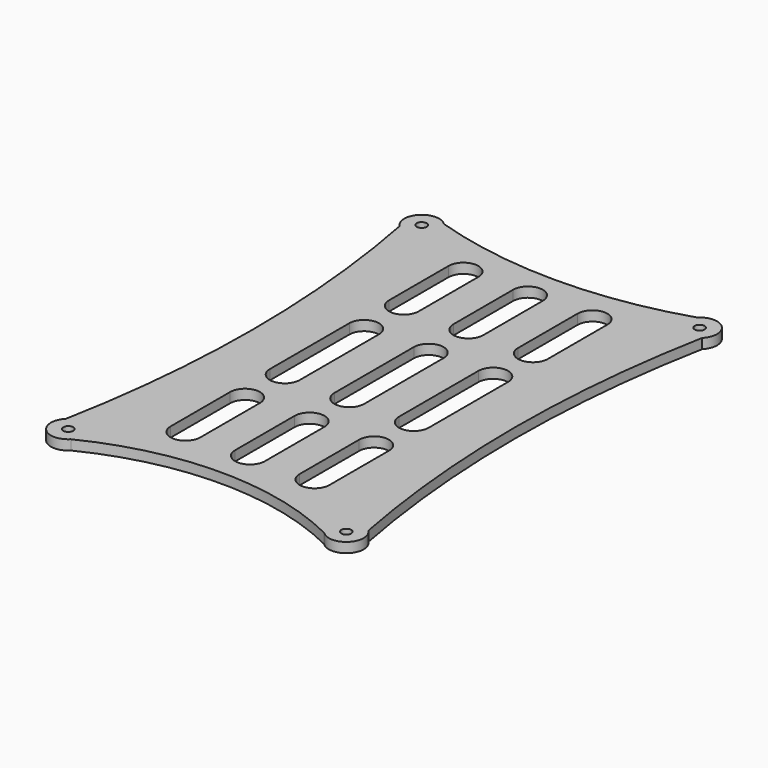
from build123d import *

# Parameters (mm, degrees)
F0_R     = 1
F1_DEPTH = 2


with BuildPart() as f1:
    # F0 (on Top) → F1 (new body)
    with BuildSketch(Plane.XY):
        with BuildLine():
            ThreePointArc((29.346194, 39.596192), (29.346194, 44.545939), (24.396447, 44.545939))
            ThreePointArc((24.396447, 44.545939), (-1.12868, 40.571065), (-26.653806, 44.545939))
            ThreePointArc((-26.653806, 44.545939), (-31.603553, 44.545939), (-31.603553, 39.596192))
            ThreePointArc((-31.603553, 39.596192), (-27.62868, -2.428935), (-31.603553, -44.454061))
            ThreePointArc((-31.603553, -44.454061), (-31.603553, -49.403808), (-26.653806, -49.403808))
            ThreePointArc((-26.653806, -49.403808), (-1.12868, -43.428935), (24.396447, -49.403808))
            ThreePointArc((24.396447, -49.403808), (29.346194, -49.403808), (29.346194, -44.454061))
            ThreePointArc((29.346194, -44.454061), (25.37132, -2.428935), (29.346194, 39.596192))
        make_face()
        with Locations((-29.12868, -46.928935)):
            Circle(F0_R, mode=Mode.SUBTRACT)
        with BuildLine():
            Line((-17.12868, -36.171575), (-17.12868, -21.171575))
            ThreePointArc((-17.12868, -21.171575), (-14.12868, -18.171575), (-11.12868, -21.171575))
            Line((-11.12868, -21.171575), (-11.12868, -36.171575))
            ThreePointArc((-11.12868, -36.171575), (-14.12868, -39.171575), (-17.12868, -36.171575))
        make_face(mode=Mode.SUBTRACT)
        with BuildLine():
            Line((-4.12868, -36.171575), (-4.12868, -21.171575))
            ThreePointArc((-4.12868, -21.171575), (-1.12868, -18.171575), (1.87132, -21.171575))
            Line((1.87132, -21.171575), (1.87132, -36.171575))
            ThreePointArc((1.87132, -36.171575), (-1.12868, -39.171575), (-4.12868, -36.171575))
        make_face(mode=Mode.SUBTRACT)
        with BuildLine():
            Line((8.87132, -36.171575), (8.87132, -21.171575))
            ThreePointArc((8.87132, -21.171575), (11.87132, -18.171575), (14.87132, -21.171575))
            Line((14.87132, -21.171575), (14.87132, -36.171575))
            ThreePointArc((14.87132, -36.171575), (11.87132, -39.171575), (8.87132, -36.171575))
        make_face(mode=Mode.SUBTRACT)
        with Locations((26.87132, -46.928935)):
            Circle(F0_R, mode=Mode.SUBTRACT)
        with BuildLine():
            Line((-17.12868, -11.171575), (-17.12868, 8.828425))
            ThreePointArc((-17.12868, 8.828425), (-14.12868, 11.828425), (-11.12868, 8.828425))
            Line((-11.12868, 8.828425), (-11.12868, -11.171575))
            ThreePointArc((-11.12868, -11.171575), (-14.12868, -14.171575), (-17.12868, -11.171575))
        make_face(mode=Mode.SUBTRACT)
        with Locations((-29.12868, 42.071065)):
            Circle(F0_R, mode=Mode.SUBTRACT)
        with BuildLine():
            Line((-17.12868, 18.828425), (-17.12868, 33.828425))
            ThreePointArc((-17.12868, 33.828425), (-14.12868, 36.828425), (-11.12868, 33.828425))
            Line((-11.12868, 33.828425), (-11.12868, 18.828425))
            ThreePointArc((-11.12868, 18.828425), (-14.12868, 15.828425), (-17.12868, 18.828425))
        make_face(mode=Mode.SUBTRACT)
        with BuildLine():
            Line((-4.12868, -11.171575), (-4.12868, 8.828425))
            ThreePointArc((-4.12868, 8.828425), (-1.12868, 11.828425), (1.87132, 8.828425))
            Line((1.87132, 8.828425), (1.87132, -11.171575))
            ThreePointArc((1.87132, -11.171575), (-1.12868, -14.171575), (-4.12868, -11.171575))
        make_face(mode=Mode.SUBTRACT)
        with BuildLine():
            Line((8.87132, -11.171575), (8.87132, 8.828425))
            ThreePointArc((8.87132, 8.828425), (11.87132, 11.828425), (14.87132, 8.828425))
            Line((14.87132, 8.828425), (14.87132, -11.171575))
            ThreePointArc((14.87132, -11.171575), (11.87132, -14.171575), (8.87132, -11.171575))
        make_face(mode=Mode.SUBTRACT)
        with BuildLine():
            Line((-4.12868, 18.828425), (-4.12868, 33.828425))
            ThreePointArc((-4.12868, 33.828425), (-1.12868, 36.828425), (1.87132, 33.828425))
            Line((1.87132, 33.828425), (1.87132, 18.828425))
            ThreePointArc((1.87132, 18.828425), (-1.12868, 15.828425), (-4.12868, 18.828425))
        make_face(mode=Mode.SUBTRACT)
        with BuildLine():
            Line((8.87132, 18.828425), (8.87132, 33.828425))
            ThreePointArc((8.87132, 33.828425), (11.87132, 36.828425), (14.87132, 33.828425))
            Line((14.87132, 33.828425), (14.87132, 18.828425))
            ThreePointArc((14.87132, 18.828425), (11.87132, 15.828425), (8.87132, 18.828425))
        make_face(mode=Mode.SUBTRACT)
        with Locations((26.87132, 42.071065)):
            Circle(F0_R, mode=Mode.SUBTRACT)
    extrude(amount=F1_DEPTH)


solid = f1.part
